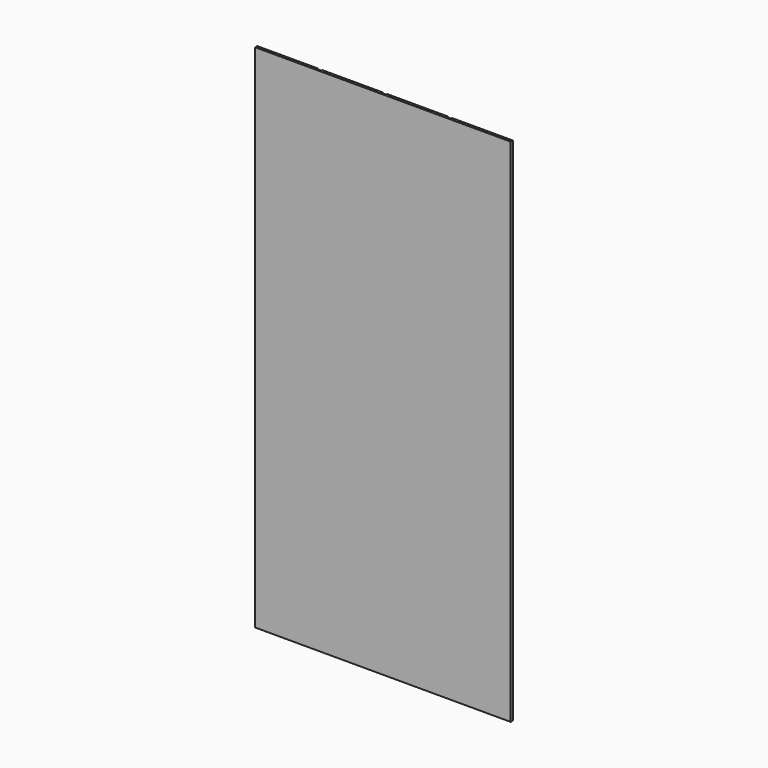
from build123d import *

# Parameters (mm, degrees)
F1_DEPTH = 2438.4


with BuildPart() as f1:
    # F0 (on Top) → F1 (new body)
    with BuildSketch(Plane.XY):
        Polygon((0, 12.7), (0, 0), (1219.2, 0), (1219.2, 12.7), (929.655671, 12.7), (929.655671, 7.55295), (909.314776, 7.55295), (909.314776, 12.7), (619.770447, 12.7), (619.770447, 7.55295), (599.429553, 7.55295), (599.429553, 12.7), (309.885224, 12.7), (309.885224, 7.55295), (289.544329, 7.55295), (289.544329, 12.7), align=None)
    extrude(amount=F1_DEPTH)


solid = f1.part
